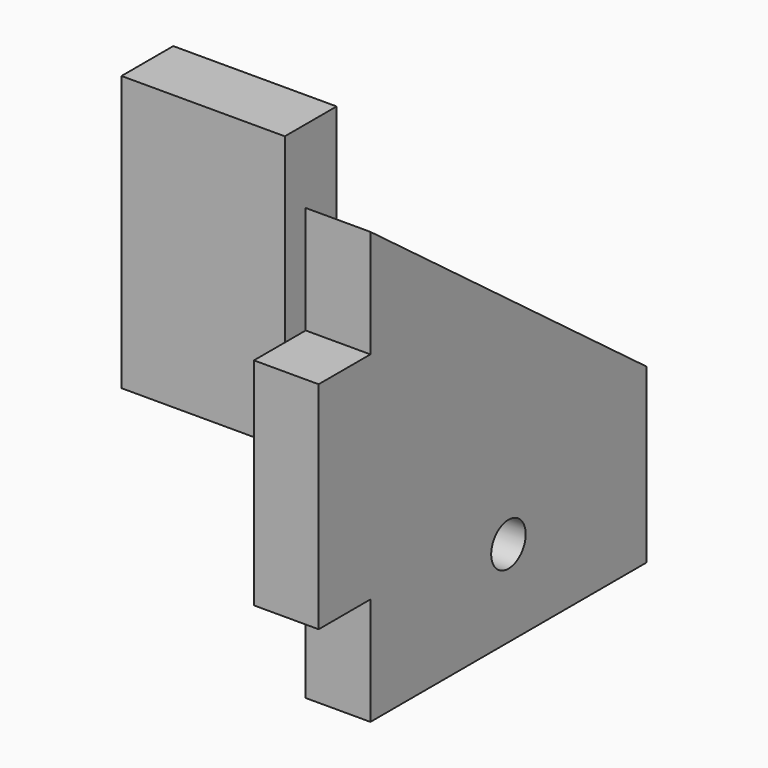
from build123d import *

# Parameters (mm, degrees)
F0_R     = 6.35
F0_W     = 19.05
F0_H     = 63.5
F1_DEPTH = 19.05
F2_W     = 48.083555
F2_H     = 80.914796
F3_DEPTH = 19.05


with BuildPart() as f1:
    # F0 (on Right) → F1 (new body)
    with BuildSketch(Plane.YZ):
        Polygon((49.348583, -24.882973), (-52.251417, 51.317027), (-52.251417, 19.567027), (-52.251417, -43.932973), (-52.251417, -75.682973), (49.348583, -75.682973), align=None)
        with Locations((-1.451417, -50.282973)):
            Circle(F0_R, mode=Mode.SUBTRACT)
        with Locations((-61.776417, -12.182973)):
            Rectangle(F0_W, F0_H)
    extrude(amount=F1_DEPTH)


with BuildPart() as f3:
    # F2 (on Front) → F3 (new body)
    with BuildSketch(Plane.XZ):
        with Locations((-56.743765, 5.299531)):
            Rectangle(F2_W, F2_H)
    extrude(amount=F3_DEPTH)


solid = Compound([f1.part, f3.part])
